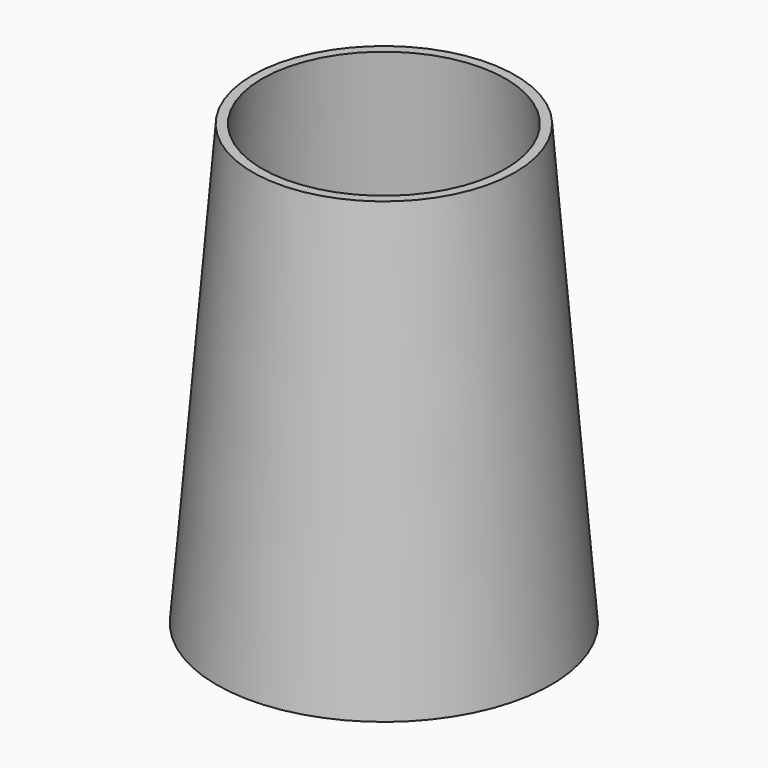
from build123d import *

# Parameters (mm, degrees)
PART_MIRRORING_PLACEMENT_ANGLE = 180


with BuildPart() as cone001:
    # Cone001 → Cone001 (revolve)
    with BuildSketch(Plane.XZ):
        Polygon((0, 0), (25.5, 0), (33, 92), (0, 92), align=None)
    revolve(axis=Axis((0, 0, 0), (0, 0, 1)))


with BuildPart() as cut:
    # Cone → Cone (revolve)
    with BuildSketch(Plane.XZ):
        Polygon((0, 0), (27.5, 0), (35, 92), (0, 92), align=None)
    revolve(axis=Axis((0, 0, 0), (0, 0, 1)))

    # Cut: cut Cone001
    add(cone001.part, mode=Mode.SUBTRACT)


with BuildPart() as part_mirroring:
    # Part__Mirroring: instance of Cut
    add(cut.part.mirror(Plane(origin=(0, 0, 0), x_dir=(0, -1, 0), z_dir=(1, 0, 0))))


with BuildPart() as part_mirroring_1:
    # Part__Mirroring placement: moved
    add(part_mirroring.part.moved(Location((0, 79, 34))).rotate(Axis((0, 79, 34), (1, 0, 0)), PART_MIRRORING_PLACEMENT_ANGLE))


solid = part_mirroring_1.part
